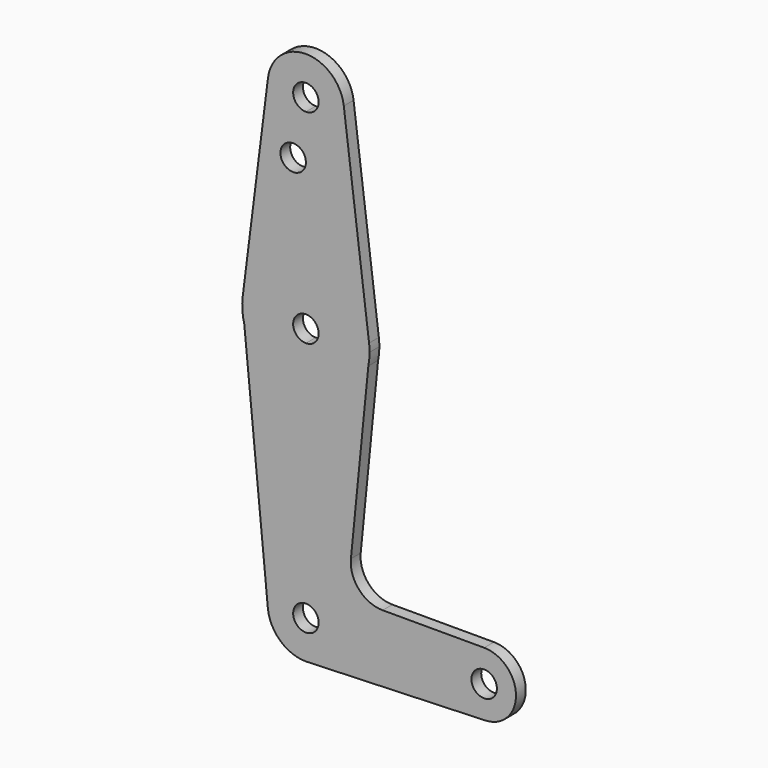
from build123d import *

# Parameters (mm, degrees)
F0_R     = 3.175
F1_DEPTH = 3.048


with BuildPart() as f1:
    # F0 (on Front) → F1 (new body)
    with BuildSketch(Plane.XZ):
        with BuildLine():
            ThreePointArc((-9.4502929642, 51.990625), (-7.14375, 44.4998046905), (0, 41.275))
            ThreePointArc((0, 41.275), (6.7351920908, 44.0648079092), (9.525, 50.8))
            ThreePointArc((9.525, 50.8), (9.5063048942, 51.396483242), (9.4502929642, 51.990625))
            ThreePointArc((9.4502929642, 51.990625), (0, 60.325), (-9.4502929642, 51.990625))
        make_face()
        with BuildLine():
            ThreePointArc((3.175, 50.8), (2.2450640303, 48.5549359697), (0, 47.625))
            ThreePointArc((0, 47.625), (-2.2450640303, 53.0450640303), (3.175, 50.8))
        make_face(mode=Mode.SUBTRACT)
        with BuildLine():
            ThreePointArc((9.525, 50.8), (6.7351920908, 44.0648079092), (0, 41.275))
            Line((0, 41.275), (0, 36.5252))
            Line((0, 36.5252), (0, 15.875))
            ThreePointArc((0, 15.875), (10.5003255158, 11.90625), (15.7504882737, 1.984375))
            Line((15.7504882737, 1.984375), (9.4502929642, 51.990625))
            ThreePointArc((9.4502929642, 51.990625), (9.5063048942, 51.396483242), (9.525, 50.8))
        make_face()
        with BuildLine():
            Line((0, 36.5252), (0, 41.275))
            ThreePointArc((0, 41.275), (-7.14375, 44.4998046905), (-9.4502929642, 51.990625))
            Line((-9.4502929642, 51.990625), (-15.7504882737, 1.984375))
            ThreePointArc((-15.7504882737, 1.984375), (-10.5003255158, 11.90625), (0, 15.875))
            Line((0, 15.875), (0, 36.5252))
        make_face()
        with Locations((-3.175, 36.5252)):
            Circle(F0_R, mode=Mode.SUBTRACT)
        with BuildLine():
            ThreePointArc((15.7504882737, 1.984375), (10.5003255158, 11.90625), (0, 15.875))
            Line((0, 15.875), (0, 3.175))
            ThreePointArc((0, 3.175), (2.2450640303, 2.2450640303), (3.175, 0))
            ThreePointArc((3.175, 0), (2.2450640303, -2.2450640303), (0, -3.175))
            Line((0, -3.175), (0, -15.875))
            ThreePointArc((0, -15.875), (10.0616155323, -12.27923116), (15.5652161214, -3.1208447723))
            Line((15.5652161214, -3.1208447723), (15.875, 0))
            ThreePointArc((15.875, 0), (15.8438414904, 0.9941387366), (15.7504882737, 1.984375))
        make_face()
        with BuildLine():
            Line((0, 3.175), (0, 15.875))
            ThreePointArc((0, 15.875), (-10.5003255158, 11.90625), (-15.7504882737, 1.984375))
            ThreePointArc((-15.7504882737, 1.984375), (-15.8414569166, -1.0314396535), (-15.3601938581, -4.0099962145))
            ThreePointArc((-15.3601938581, -4.0099962145), (-9.7045591114, -12.5633258914), (0, -15.875))
            Line((0, -15.875), (0, -3.175))
            ThreePointArc((0, -3.175), (-3.175, 0), (0, 3.175))
        make_face()
        with BuildLine():
            ThreePointArc((0, -15.875), (-9.7045591114, -12.5633258914), (-15.3601938581, -4.0099962145))
            Line((-15.3601938581, -4.0099962145), (-9.4802019164, -64.4227115609))
            ThreePointArc((-9.4802019164, -64.4227115609), (-7.0538802307, -57.0993438859), (0, -53.975))
            Line((0, -53.975), (0, -15.875))
        make_face()
        with BuildLine():
            ThreePointArc((15.5652161214, -3.1208447723), (15.7973641936, -1.5680910484), (15.875, 0))
            Line((15.875, 0), (15.5652161214, -3.1208447723))
        make_face()
        with BuildLine():
            ThreePointArc((15.5652161214, -3.1208447723), (10.0616155323, -12.27923116), (0, -15.875))
            Line((0, -15.875), (0, -53.975))
            ThreePointArc((0, -53.975), (6.7351920908, -56.7648079092), (9.525, -63.5))
            Line((9.525, -63.5), (36.5125, -63.5))
            ThreePointArc((36.5125, -63.5), (38.8373399243, -57.8873399243), (44.45, -55.5625))
            Line((44.45, -55.5625), (19.1381395304, -55.5625))
            ThreePointArc((19.1381395304, -55.5625), (13.2453909325, -52.9490774923), (11.2268195423, -46.827000003))
            Line((11.2268195423, -46.827000003), (15.5652161214, -3.1208447723))
        make_face()
        with BuildLine():
            ThreePointArc((0, -53.975), (-7.0538802307, -57.0993438859), (-9.4802019164, -64.4227115609))
            ThreePointArc((-9.4802019164, -64.4227115609), (-6.4006561141, -70.5538802307), (0, -73.025))
            Line((0, -73.025), (0.6773435479, -73.000885786))
            ThreePointArc((0.6773435479, -73.000885786), (6.9705567315, -69.9912990883), (9.525, -63.5))
            Line((9.525, -63.5), (3.175, -63.5))
            ThreePointArc((3.175, -63.5), (-2.2450640303, -65.7450640303), (0, -60.325))
            Line((0, -60.325), (0, -53.975))
        make_face()
        with BuildLine():
            Line((0.6773435479, -73.000885786), (0, -73.025))
            ThreePointArc((0, -73.025), (0.3388863295, -73.0189695375), (0.6773435479, -73.000885786))
        make_face()
        with BuildLine():
            Line((36.5125, -63.5), (9.525, -63.5))
            ThreePointArc((9.525, -63.5), (6.9705567315, -69.9912990883), (0.6773435479, -73.000885786))
            Line((0.6773435479, -73.000885786), (44.7324052746, -71.4324746146))
            ThreePointArc((44.7324052746, -71.4324746146), (38.9380895153, -69.2116327839), (36.5125, -63.5))
        make_face()
        with BuildLine():
            ThreePointArc((44.45, -55.5625), (38.8373399243, -57.8873399243), (36.5125, -63.5))
            ThreePointArc((36.5125, -63.5), (38.9380895153, -69.2116327839), (44.7324052746, -71.4324746146))
            ThreePointArc((44.7324052746, -71.4324746146), (50.1616327839, -69.0119104847), (52.3875, -63.5))
            ThreePointArc((52.3875, -63.5), (50.0626600757, -57.8873399243), (44.45, -55.5625))
        make_face()
        with BuildLine():
            ThreePointArc((47.625, -63.5), (44.45, -66.675), (41.275, -63.5))
            ThreePointArc((41.275, -63.5), (44.45, -60.325), (47.625, -63.5))
        make_face(mode=Mode.SUBTRACT)
        with BuildLine():
            ThreePointArc((9.525, -63.5), (6.7351920908, -56.7648079092), (0, -53.975))
            Line((0, -53.975), (0, -60.325))
            ThreePointArc((0, -60.325), (2.2450640303, -61.2549359697), (3.175, -63.5))
            Line((3.175, -63.5), (9.525, -63.5))
        make_face()
    extrude(amount=F1_DEPTH)


solid = f1.part
